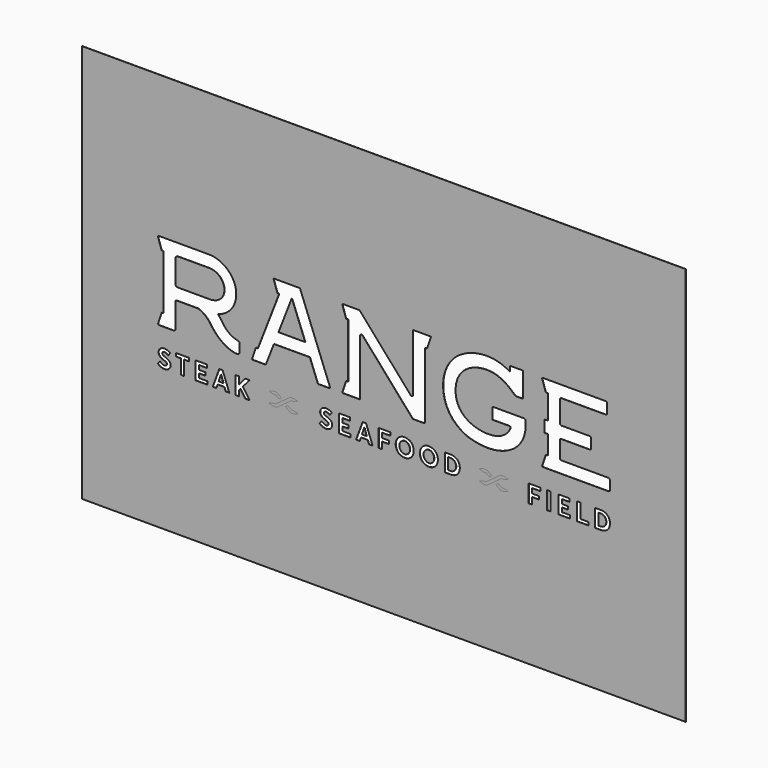
from build123d import *

# Parameters (mm, degrees)
F0_W     = 862.808892
F0_H     = 569.84138
F0_W_2   = 5.02158
F0_H_2   = 25.281382
F1_DEPTH = 0.254
F2_DEPTH = 0.254


with BuildPart() as f1:
    # F0 (on Front) → F1 (new body)
    with BuildSketch(Plane.XZ):
        Rectangle(F0_W, F0_H)
        Polygon((-313.464778, -83.207606), (-313.856446, -83.207606), (-314.469602, -83.207606), (-316.309324, -82.9691), (-318.708608, -82.241644), (-320.98775, -80.998568), (-322.607, -79.71028), (-323.07944, -79.218028), (-320.087828, -75.518264), (-319.616658, -76.06919), (-316.977852, -77.92974), (-314.583902, -78.686152), (-313.786342, -78.686152), (-313.38934, -78.686152), (-312.197318, -78.489302), (-311.061684, -77.937868), (-310.37944, -77.091794), (-310.152364, -76.281534), (-310.152364, -76.012802), (-310.152364, -75.715368), (-310.412714, -74.82205), (-311.213322, -73.927716), (-312.588478, -73.185274), (-314.07133, -72.620124), (-314.570186, -72.45223), (-315.281386, -72.200008), (-317.367742, -71.317866), (-319.808174, -69.78269), (-321.534612, -67.606672), (-322.189424, -65.31229), (-322.189424, -64.548766), (-322.189424, -63.840614), (-321.562552, -61.718444), (-319.839924, -59.440572), (-317.26284, -57.910984), (-314.872192, -57.333388), (-314.07133, -57.321196), (-313.287486, -57.312814), (-309.562322, -58.13679), (-306.176502, -60.009786), (-305.562076, -60.526422), (-308.446246, -64.300862), (-308.809974, -63.99784), (-309.97304, -63.173864), (-311.405092, -62.399164), (-312.737322, -61.951362), (-313.657818, -61.808106), (-313.964142, -61.808106), (-314.267164, -61.808106), (-315.17242, -61.977524), (-316.13, -62.471046), (-316.76119, -63.264796), (-316.988774, -64.066674), (-316.988774, -64.334136), (-316.995378, -64.588644), (-316.748998, -65.364868), (-315.96617, -66.187574), (-314.63775, -66.930016), (-313.22805, -67.53225), (-312.752562, -67.720972), (-311.98218, -68.021708), (-309.68094, -68.961508), (-307.193518, -70.392036), (-305.527278, -72.418956), (-304.91844, -74.686922), (-304.91844, -75.443588), (-304.91844, -75.92314), (-305.133324, -77.36205), (-305.735558, -78.985364), (-306.659102, -80.32623), (-307.839948, -81.395316), (-309.215358, -82.20583), (-310.71853, -82.77098), (-312.28825, -83.100164), align=None, mode=Mode.SUBTRACT)
        Polygon((-278.437924, -57.642252), (-278.437924, -62.129162), (-285.452134, -62.129162), (-285.452134, -82.923634), (-290.4379, -82.923634), (-290.4379, -62.129162), (-297.415026, -62.129162), (-297.415026, -57.642252), align=None, mode=Mode.SUBTRACT)
        Polygon((-252.386414, -78.472792), (-252.386414, -82.923634), (-269.29748, -82.923634), (-269.29748, -57.642252), (-253.13165, -57.642252), (-253.13165, -62.129162), (-264.386136, -62.129162), (-264.386136, -68.182744), (-255.378026, -68.182744), (-255.378026, -72.596756), (-264.386136, -72.596756), (-264.386136, -78.472792), align=None, mode=Mode.SUBTRACT)
        Polygon((-221.096408, -82.923634), (-226.330078, -82.923634), (-228.040514, -77.867764), (-237.761348, -77.867764), (-239.471022, -82.923634), (-244.704946, -82.923634), (-235.338696, -57.642252), (-230.53327, -57.642252), align=None, mode=Mode.SUBTRACT)
        Polygon((-127.517474, -79.036418), (-127.941654, -79.167228), (-128.155014, -79.269336), (-129.224354, -79.408274), (-130.291154, -79.369666), (-130.504514, -79.383636), (-133.712534, -79.383636), (-134.233234, -79.004668), (-140.667054, -74.3331), (-137.291394, -71.881492), (-132.424754, -75.41895), (-130.504514, -75.41895), (-130.291154, -75.432666), (-129.224354, -75.392534), (-128.155014, -75.53198), (-127.941654, -75.635358), (-127.517474, -75.764644), (-123.245194, -77.228446), (-122.818474, -77.400658), (-123.245194, -77.571346), align=None, mode=Mode.SUBTRACT)
        Polygon((-192.020012, -82.923634), (-198.181036, -82.923634), (-204.910258, -72.773286), (-204.947342, -72.773286), (-207.436034, -75.731624), (-207.436034, -82.923634), (-212.4218, -82.923634), (-212.4218, -57.642252), (-207.436034, -57.642252), (-207.436034, -68.784978), (-207.403014, -68.784978), (-198.641284, -57.642252), (-192.30373, -57.642252), (-201.63442, -68.784978), align=None, mode=Mode.SUBTRACT)
        Polygon((-163.994414, -62.24778), (-164.421134, -62.06998), (-163.994414, -61.890656), (-159.724674, -60.408058), (-159.297954, -60.278518), (-159.084594, -60.173616), (-158.015254, -60.053728), (-156.948454, -60.106052), (-156.732554, -60.088272), (-153.527074, -60.088272), (-153.006374, -60.46724), (-146.575094, -65.138808), (-149.950754, -67.588638), (-154.817394, -64.052958), (-156.732554, -64.052958), (-156.948454, -64.034924), (-158.015254, -64.085978), (-159.084594, -63.96609), (-159.297954, -63.862712), (-159.724674, -63.731902), align=None, mode=Mode.SUBTRACT)
        Polygon((-127.517474, -63.70574), (-127.941654, -63.83655), (-128.155014, -63.938658), (-129.224354, -64.077596), (-130.291154, -64.039242), (-130.504514, -64.052958), (-132.424754, -64.052958), (-153.006374, -79.004668), (-153.527074, -79.383636), (-156.732554, -79.383636), (-156.948454, -79.365602), (-158.015254, -79.416656), (-159.084594, -79.296768), (-159.297954, -79.19339), (-159.724674, -79.06258), (-163.994414, -77.578458), (-164.421134, -77.400658), (-163.994414, -77.221334), (-159.724674, -75.738736), (-159.297954, -75.609196), (-159.084594, -75.504294), (-158.015254, -75.384406), (-156.948454, -75.43673), (-156.732554, -75.41895), (-154.814854, -75.41895), (-134.233234, -60.46724), (-133.712534, -60.088272), (-130.504514, -60.088272), (-130.291154, -60.101988), (-129.224354, -60.061856), (-128.155014, -60.201302), (-127.941654, -60.30468), (-127.517474, -60.433966), (-123.245194, -61.897768), (-122.818474, -62.06998), (-123.245194, -62.240668), align=None, mode=Mode.SUBTRACT)
        Polygon((-82.488354, -83.207606), (-82.879514, -83.207606), (-83.494194, -83.207606), (-85.333154, -82.9691), (-87.733454, -82.241644), (-90.011834, -80.998568), (-91.632354, -79.71028), (-92.104794, -79.218028), (-89.112674, -75.518264), (-88.640234, -76.06919), (-86.001174, -77.92974), (-83.608494, -78.686152), (-82.810934, -78.686152), (-82.414694, -78.686152), (-81.220894, -78.489302), (-80.085514, -77.937868), (-79.404794, -77.091794), (-79.176194, -76.281534), (-79.176194, -76.012802), (-79.176194, -75.715368), (-79.437814, -74.82205), (-80.237914, -73.927716), (-81.612054, -73.185274), (-83.095414, -72.620124), (-83.593254, -72.45223), (-84.304454, -72.200008), (-86.392334, -71.317866), (-88.833274, -69.78269), (-90.557934, -67.606672), (-91.213254, -65.31229), (-91.213254, -64.548766), (-91.213254, -63.840614), (-90.585874, -61.718444), (-88.863754, -59.440572), (-86.288194, -57.910984), (-83.895514, -57.333388), (-83.095414, -57.321196), (-82.310554, -57.312814), (-78.586914, -58.13679), (-75.198554, -60.009786), (-74.586414, -60.526422), (-77.471854, -64.300862), (-77.835074, -63.99784), (-78.998394, -63.173864), (-80.428414, -62.399164), (-81.761914, -61.951362), (-82.681394, -61.808106), (-82.988734, -61.808106), (-83.290994, -61.808106), (-84.197774, -61.977524), (-85.155354, -62.471046), (-85.785274, -63.264796), (-86.013874, -64.066674), (-86.013874, -64.334136), (-86.018954, -64.588644), (-85.772574, -65.364868), (-84.990254, -66.187574), (-83.661834, -66.930016), (-82.252134, -67.53225), (-81.777154, -67.720972), (-81.007534, -68.021708), (-78.706294, -68.961508), (-76.219634, -70.392036), (-74.550854, -72.418956), (-73.943794, -74.686922), (-73.943794, -75.443588), (-73.943794, -75.92314), (-74.159694, -77.36205), (-74.759134, -78.985364), (-75.683694, -80.32623), (-76.864794, -81.395316), (-78.241474, -82.20583), (-79.742614, -82.77098), (-81.312334, -83.100164), align=None, mode=Mode.SUBTRACT)
        Polygon((-47.461754, -78.472792), (-47.461754, -82.923634), (-64.375614, -82.923634), (-64.375614, -57.642252), (-48.208514, -57.642252), (-48.208514, -62.129162), (-59.463254, -62.129162), (-59.463254, -68.182744), (-50.451334, -68.182744), (-50.451334, -72.596756), (-59.463254, -72.596756), (-59.463254, -78.472792), align=None, mode=Mode.SUBTRACT)
        Polygon((-16.176574, -82.923634), (-21.411514, -82.923634), (-23.118394, -77.867764), (-32.841514, -77.867764), (-34.553474, -82.923634), (-39.783334, -82.923634), (-30.418354, -57.642252), (-25.612674, -57.642252), align=None, mode=Mode.SUBTRACT)
        Polygon((173.088986, -79.254096), (172.662266, -79.384906), (172.448906, -79.487014), (171.382106, -79.625952), (170.315306, -79.587344), (170.104486, -79.601314), (166.901546, -79.601314), (166.378306, -79.223616), (159.957186, -74.557636), (163.327766, -72.110346), (168.189326, -75.640946), (170.104486, -75.640946), (170.315306, -75.654662), (171.382106, -75.6158), (172.448906, -75.755246), (172.662266, -75.858624), (173.088986, -75.988164), (177.353646, -77.448918), (177.780366, -77.62113), (177.353646, -77.791818), align=None, mode=Mode.SUBTRACT)
        Polygon((9.271686, -57.642252), (9.271686, -62.129162), (-2.549474, -62.129162), (-2.549474, -68.8594), (7.310806, -68.8594), (7.310806, -73.342246), (-2.549474, -73.342246), (-2.549474, -82.923634), (-7.497394, -82.923634), (-7.497394, -57.642252), align=None, mode=Mode.SUBTRACT)
        Polygon((30.366386, -83.207606), (29.695826, -83.207606), (29.007486, -83.207606), (26.942466, -82.958178), (24.453266, -82.23885), (22.256166, -81.0895), (20.381646, -79.54899), (18.867806, -77.658214), (17.742586, -75.456034), (17.049166, -72.985122), (16.807866, -70.959472), (16.807866, -70.28434), (16.807866, -69.60489), (17.049166, -67.568318), (17.742586, -65.088008), (18.867806, -62.878716), (20.381646, -60.98413), (22.256166, -59.440572), (24.453266, -58.288428), (26.942466, -57.5691), (29.007486, -57.321196), (29.695826, -57.321196), (30.366386, -57.321196), (32.383146, -57.560972), (34.841866, -58.258202), (37.033886, -59.384184), (38.913486, -60.902596), (40.447646, -62.78499), (41.590646, -64.996822), (42.306926, -67.507612), (42.553306, -69.58965), (42.553306, -70.28434), (42.553306, -70.976236), (42.306926, -73.05548), (41.590646, -75.560936), (40.447646, -77.765656), (38.913486, -79.640938), (37.033886, -81.154524), (34.841866, -82.27314), (32.383146, -82.96783), align=None, mode=Mode.SUBTRACT)
        Polygon((64.930706, -83.207606), (64.257606, -83.207606), (63.569266, -83.207606), (61.504246, -82.958178), (59.015046, -82.23885), (56.817946, -81.0895), (54.943426, -79.54899), (53.427046, -77.658214), (52.304366, -75.456034), (51.605866, -72.985122), (51.367106, -70.959472), (51.367106, -70.28434), (51.367106, -69.60489), (51.605866, -67.568318), (52.304366, -65.088008), (53.427046, -62.878716), (54.943426, -60.98413), (56.817946, -59.440572), (59.015046, -58.288428), (61.504246, -57.5691), (63.569266, -57.321196), (64.257606, -57.321196), (64.930706, -57.321196), (66.944926, -57.560972), (69.406186, -58.258202), (71.595666, -59.384184), (73.477806, -60.902596), (75.009426, -62.78499), (76.152426, -64.996822), (76.868706, -67.507612), (77.115086, -69.58965), (77.115086, -70.28434), (77.115086, -70.976236), (76.868706, -73.05548), (76.152426, -75.560936), (75.009426, -77.765656), (73.477806, -79.640938), (71.595666, -81.154524), (69.406186, -82.27314), (66.944926, -82.96783), align=None, mode=Mode.SUBTRACT)
        Polygon((96.157466, -82.923634), (95.436106, -82.923634), (86.965206, -82.923634), (86.965206, -57.642252), (95.331966, -57.642252), (96.048246, -57.642252), (98.197086, -57.879234), (100.762486, -58.57113), (103.010386, -59.680094), (104.902686, -61.175646), (106.424146, -63.020702), (107.541746, -65.18275), (108.235166, -67.62623), (108.471386, -69.643752), (108.471386, -70.317614), (108.471386, -70.985634), (108.240246, -72.995028), (107.574766, -75.425808), (106.487646, -77.575664), (104.999206, -79.411068), (103.129766, -80.896714), (100.899646, -82.000344), (98.329166, -82.686652), align=None, mode=Mode.SUBTRACT)
        Polygon((136.657766, -62.488572), (136.233586, -62.310772), (136.657766, -62.131956), (140.922426, -60.651644), (141.349146, -60.522358), (141.565046, -60.417456), (142.629306, -60.297568), (143.696106, -60.348622), (143.909466, -60.330588), (147.114946, -60.330588), (147.633106, -60.709556), (154.056766, -65.37579), (150.686186, -67.822064), (145.827166, -64.291464), (143.909466, -64.291464), (143.696106, -64.27343), (142.629306, -64.32423), (141.565046, -64.204596), (141.349146, -64.101218), (140.922426, -63.970408), align=None, mode=Mode.SUBTRACT)
        Polygon((173.088986, -63.943992), (172.662266, -64.074802), (172.448906, -64.177164), (171.382106, -64.316102), (170.315306, -64.277494), (170.104486, -64.291464), (168.189326, -64.291464), (147.633106, -79.223616), (147.114946, -79.601314), (143.909466, -79.601314), (143.696106, -79.58328), (142.629306, -79.634334), (141.565046, -79.514446), (141.349146, -79.411068), (140.922426, -79.280258), (136.657766, -77.79893), (136.233586, -77.62113), (136.657766, -77.441806), (140.922426, -75.962002), (141.349146, -75.832462), (141.565046, -75.727814), (142.629306, -75.607672), (143.696106, -75.658472), (143.909466, -75.640946), (145.827166, -75.640946), (166.378306, -60.709556), (166.901546, -60.330588), (170.104486, -60.330588), (170.315306, -60.344558), (171.382106, -60.30468), (172.448906, -60.443618), (172.662266, -60.546996), (173.088986, -60.67679), (177.353646, -62.138814), (177.780366, -62.310772), (177.353646, -62.481968), align=None, mode=Mode.SUBTRACT)
        Polygon((223.634986, -57.642252), (223.634986, -62.129162), (211.813826, -62.129162), (211.813826, -68.8594), (221.674106, -68.8594), (221.674106, -73.342246), (211.813826, -73.342246), (211.813826, -82.923634), (206.863366, -82.923634), (206.863366, -57.642252), align=None, mode=Mode.SUBTRACT)
        with Locations((235.818096, -70.282943)):
            Rectangle(F0_W_2, F0_H_2, mode=Mode.SUBTRACT)
        Polygon((266.306986, -78.472792), (266.306986, -82.923634), (249.395666, -82.923634), (249.395666, -57.642252), (265.557686, -57.642252), (265.557686, -62.129162), (254.308026, -62.129162), (254.308026, -68.182744), (263.314866, -68.182744), (263.314866, -72.596756), (254.308026, -72.596756), (254.308026, -78.472792), align=None, mode=Mode.SUBTRACT)
        Polygon((292.362306, -78.472792), (292.362306, -82.923634), (276.088526, -82.923634), (276.088526, -57.642252), (281.110106, -57.642252), (281.110106, -78.472792), align=None, mode=Mode.SUBTRACT)
        Polygon((310.767146, -82.923634), (310.048326, -82.923634), (301.574886, -82.923634), (301.574886, -57.642252), (309.941646, -57.642252), (310.657926, -57.642252), (312.806766, -57.879234), (315.374706, -58.57113), (317.617526, -59.680094), (319.517446, -61.175646), (321.033826, -63.020702), (322.151426, -65.18275), (322.842306, -67.62623), (323.078526, -69.643752), (323.078526, -70.317614), (323.078526, -70.985634), (322.852466, -72.995028), (322.181906, -75.425808), (321.097326, -77.575664), (319.603806, -79.411068), (317.734366, -80.896714), (315.504246, -82.000344), (312.936306, -82.686652), align=None, mode=Mode.SUBTRACT)
        Polygon((-264.2759, 8.28929), (-265.641658, 8.73633), (-297.014214, 8.72109), (-297.1943, 8.72109), (-297.734812, 8.42391), (-298.032246, 7.88289), (-298.032246, 7.70255), (-298.01853, -28.24099), (-298.01853, -28.45435), (-298.190996, -29.08935), (-298.659372, -29.78531), (-299.353808, -30.25267), (-299.990586, -30.42539), (-300.20293, -30.42539), (-321.202634, -30.42793), (-321.387546, -30.42793), (-321.939996, -30.25013), (-322.437328, -29.86405), (-322.513274, -29.75991), (-322.59049, -29.65069), (-322.801056, -29.05887), (-322.775148, -28.43149), (-322.733746, -28.30703), (-317.786334, -13.46835), (-314.990556, -13.46835), (-314.990556, 64.79159), (-317.786334, 64.79159), (-323.041086, 80.54975), (-323.06039, 80.60563), (-323.07563, 80.80121), (-323.033974, 80.90027), (-323.025846, 80.91043), (-322.991302, 80.95869), (-322.765496, 81.12379), (-322.04185, 81.40827), (-320.626562, 81.64957), (-318.874978, 81.75371), (-318.290778, 81.75371), (-250.58657, 81.75371), (-249.652358, 81.75371), (-246.849214, 81.58353), (-243.197456, 81.07553), (-239.649076, 80.25257), (-236.223124, 79.13243), (-232.936618, 77.72019), (-229.808608, 76.04125), (-226.85789, 74.10577), (-224.103514, 71.93153), (-221.560974, 69.53885), (-219.251352, 66.93789), (-217.191158, 64.14135), (-215.399696, 61.17463), (-213.894746, 58.04535), (-212.694596, 54.77129), (-211.818296, 51.37277), (-211.371764, 48.74133), (-211.282102, 47.85741), (-211.129448, 46.33341), (-211.169326, 41.71061), (-212.06493, 35.87115), (-213.924972, 30.40507), (-216.706018, 25.38095), (-220.364634, 20.85975), (-224.857386, 16.90497), (-230.140586, 13.58519), (-234.623178, 11.50747), (-236.16953, 10.96137), (-237.132698, 10.62355), (-236.42988, 9.88441), (-235.94347, 9.37387), (-231.969386, 4.16941), (-231.664586, 3.64363), (-231.03238, 2.55651), (-228.86322, -0.55499), (-225.855098, -4.01955), (-222.730898, -6.81863), (-219.588918, -9.02589), (-216.52009, -10.70991), (-213.619156, -11.94181), (-210.981874, -12.79017), (-209.274486, -13.21943), (-208.699684, -13.33119), (-208.439334, -13.38199), (-207.69359, -13.72489), (-206.89857, -14.42339), (-206.374822, -15.35557), (-206.1861, -16.16837), (-206.18483, -16.44015), (-206.172384, -26.53411), (-206.172384, -26.88463), (-206.440862, -27.94635), (-207.05732, -28.94457), (-207.229278, -29.11475), (-207.44848, -29.32811), (-208.834812, -30.09519), (-210.521626, -30.42793), (-210.889418, -30.42539), (-211.750478, -30.41015), (-214.330356, -30.05201), (-218.401214, -29.00045), (-222.95137, -27.21737), (-227.8269, -24.64435), (-232.878706, -21.23059), (-237.955658, -16.91767), (-242.904086, -11.64971), (-246.499202, -7.00659), (-247.572606, -5.37845), (-248.403948, -4.11861), (-251.279736, -0.59309), (-255.536268, 3.36423), (-260.329248, 6.47827), align=None, mode=Mode.SUBTRACT)
        Polygon((-94.599074, -29.89707), (-94.596534, -29.89707), (-105.922394, -0.74041), (-157.304054, -0.74041), (-168.627374, -29.89707), (-168.665474, -29.99105), (-169.026154, -30.37967), (-169.463034, -30.57779), (-169.610354, -30.57779), (-179.996668, -30.57779), (-179.996668, -30.58033), (-187.477984, -30.58033), (-187.591014, -30.58033), (-187.927056, -30.47365), (-188.228808, -30.24251), (-188.275798, -30.17901), (-188.322534, -30.11551), (-188.436834, -29.38653), (-188.410672, -29.31287), (-183.0721, -13.61821), (-180.1384, -13.61821), (-180.1384, -13.61567), (-149.739934, 64.64173), (-152.152934, 64.64173), (-157.624094, 80.70215), (-157.641874, 80.75549), (-157.563134, 81.27365), (-157.530114, 81.31683), (-157.497094, 81.36255), (-157.098314, 81.59877), (-156.963694, 81.59877), (-143.153714, 81.59877), (-143.153714, 81.60131), (-131.614494, 81.59877), (-120.075274, 81.60131), (-113.489054, 64.64427), (-83.087794, -13.61567), (-77.182294, -28.82265), (-77.126414, -28.96743), (-77.108634, -29.45511), (-77.342314, -30.01899), (-77.817294, -30.42285), (-78.304974, -30.57779), (-78.467534, -30.57779), (-93.567834, -30.57779), (-93.722774, -30.57779), (-94.185054, -30.37713), (-94.563514, -29.99105), align=None, mode=Mode.SUBTRACT)
        Polygon((-59.387054, 81.27365), (-59.354034, 81.31937), (-59.326094, 81.36509), (-58.932394, 81.60131), (-58.802854, 81.60131), (-34.901454, 81.59877), (38.217526, -1.58369), (38.354686, -1.73863), (39.238606, -2.19075), (40.229206, -2.18313), (40.422246, -2.10947), (40.620366, -2.03327), (41.362046, -1.37287), (41.710026, -0.52197), (41.710026, -0.23749), (41.710026, 80.91805), (41.710026, 81.03997), (41.910686, 81.40065), (42.271366, 81.59877), (42.395826, 81.59877), (66.381046, 81.60131), (66.518206, 81.60131), (66.899206, 81.36509), (66.934766, 81.31937), (66.965246, 81.27365), (67.043986, 80.75549), (67.026206, 80.70215), (61.674426, 64.64173), (58.669606, 64.64173), (58.669606, -29.10459), (58.669606, -29.24683), (58.552766, -29.67609), (58.237806, -30.14599), (57.770446, -30.46095), (57.338646, -30.57779), (57.198946, -30.57779), (41.991966, -30.57779), (41.842106, -30.57779), (41.392526, -30.44825), (40.965806, -30.16631), (40.894686, -30.09011), (-30.639334, 51.28641), (-30.779034, 51.44135), (-31.660414, 51.89601), (-32.651014, 51.88585), (-32.844054, 51.80965), (-33.042174, 51.73599), (-33.783854, 51.07813), (-34.131834, 50.22469), (-34.131834, 49.93767), (-34.131834, -29.89707), (-34.131834, -30.01899), (-34.335034, -30.37967), (-34.698254, -30.58033), (-34.817634, -30.58033), (-58.411694, -30.57779), (-58.523454, -30.57779), (-58.851114, -30.47111), (-59.148294, -30.23997), (-59.191474, -30.17901), (-59.239734, -30.11551), (-59.348954, -29.38653), (-59.326094, -29.31033), (-54.093694, -13.61821), (-51.091414, -13.61821), (-51.091414, 64.64173), (-54.093694, 64.64173), (-59.448014, 80.70215), (-59.465794, 80.75549), align=None, mode=Mode.SUBTRACT)
        Polygon((202.334546, 8.50265), (202.189766, 7.47649), (202.027206, 6.34365), (200.759746, 0.88773), (198.897926, -4.25323), (198.435646, -5.22859), (197.955586, -6.23951), (196.302046, -9.17067), (193.817926, -12.77239), (191.013766, -16.04137), (187.914966, -18.98523), (184.564706, -21.61413), (180.983306, -23.93061), (177.206326, -25.94483), (173.264246, -27.66187), (169.187546, -29.09443), (165.006706, -30.23997), (160.752206, -31.117794), (156.454526, -31.726886), (152.146686, -32.076644), (147.864246, -32.174688), (143.627526, -32.028638), (140.513486, -31.770828), (139.479706, -31.645606), (138.217326, -31.491174), (134.445426, -30.95244), (129.009826, -29.94787), (123.459926, -28.51277), (119.385766, -27.10307), (118.077666, -26.52395), (116.132026, -25.66289), (110.536406, -22.55647), (103.884146, -17.75587), (98.151366, -12.18311), (93.381246, -5.88899), (89.604266, 1.06807), (86.858526, 8.62711), (85.184666, 16.73733), (84.615706, 23.18893), (84.615706, 25.33777), (84.615706, 26.89987), (84.905266, 31.58617), (85.773946, 37.58565), (87.201426, 43.31589), (89.187706, 48.75911), (91.725166, 53.90007), (94.801106, 58.71591), (98.412986, 63.18885), (101.460986, 66.33337), (102.548106, 67.30365), (103.619986, 68.26377), (107.041366, 70.91299), (111.935946, 74.08799), (117.181046, 76.81341), (122.730946, 79.07655), (128.532306, 80.86471), (134.541946, 82.15757), (140.706526, 82.94497), (145.410606, 83.20913), (146.975246, 83.20913), (148.814206, 83.20913), (153.711326, 82.90687), (154.323466, 82.84591), (156.228466, 82.66049), (161.897746, 81.57591), (168.598266, 79.55915), (174.422486, 77.11059), (178.168986, 75.23607), (179.393266, 74.57059), (180.371166, 74.03719), (180.371166, 81.60131), (198.255306, 81.60131), (198.379766, 81.60131), (198.745526, 81.40065), (198.951266, 81.04505), (198.951266, 80.92313), (198.951266, 46.70679), (198.951266, 46.58741), (198.745526, 46.22673), (198.379766, 46.02861), (198.255306, 46.02861), (188.590606, 46.02861), (187.914966, 46.27753), (182.921326, 50.61077), (182.913706, 50.61839), (182.801946, 50.71491), (182.507306, 50.97145), (182.095826, 51.32705), (181.628466, 51.73599), (181.161106, 52.14239), (180.752166, 52.49545), (180.465146, 52.74691), (180.355926, 52.84089), (179.957146, 53.16347), (178.758266, 54.11851), (176.545926, 55.77967), (173.754466, 57.67451), (170.434686, 59.65063), (166.614526, 61.56071), (162.337166, 63.25743), (157.640706, 64.58839), (153.843406, 65.28181), (152.568326, 65.40627), (151.224666, 65.54089), (147.163206, 65.68821), (141.836826, 65.46469), (136.634906, 64.74587), (131.623486, 63.54953), (126.845746, 61.89345), (122.362646, 59.79541), (118.224986, 57.26557), (115.370026, 55.11419), (114.486106, 54.32171), (113.028146, 53.01615), (109.215606, 48.46447), (105.436086, 41.66997), (103.157706, 33.95853), (102.395706, 27.51201), (102.395706, 25.36063), (102.395706, 23.87473), (102.766546, 19.41449), (103.866366, 13.90523), (105.705326, 8.83793), (108.268186, 4.21513), (111.560026, 0.03937), (115.570686, -3.68427), (120.310326, -6.95325), (124.364166, -9.14019), (125.763706, -9.75995), (126.949886, -10.28573), (130.625266, -11.61415), (135.743366, -13.01115), (141.011326, -13.95095), (146.312306, -14.42339), (151.544706, -14.42593), (156.596766, -13.95349), (161.359266, -13.00099), (164.656186, -11.99515), (165.720446, -11.56335), (166.782166, -11.12901), (171.676746, -8.31215), (175.867746, -4.72059), (176.581486, -3.90017), (176.594186, -3.88747), (176.817706, -3.61569), (177.396826, -2.88163), (178.189306, -1.81229), (179.060526, -0.51943), (179.880946, 0.88265), (180.508326, 2.27711), (180.825826, 3.55473), (180.790266, 4.37261), (180.688666, 4.60121), (180.648026, 4.69011), (180.482926, 4.93141), (180.147646, 5.23367), (179.647266, 5.45719), (179.124026, 5.54609), (178.948766, 5.54609), (155.689986, 5.54609), (155.565526, 5.54609), (155.199766, 5.74421), (154.994026, 6.10235), (154.994026, 6.22173), (154.994026, 21.31441), (154.994026, 21.43379), (155.199766, 21.79193), (155.565526, 21.99005), (155.689986, 21.99005), (200.355886, 21.99005), (200.584486, 21.99005), (201.267746, 21.81225), (202.017046, 21.32203), (202.525046, 20.59305), (202.715546, 19.92249), (202.715546, 19.69897), (202.723166, 18.74901), (202.679986, 13.70203), align=None, mode=Mode.SUBTRACT)
        Polygon((323.078526, -15.84833), (323.078526, -28.34767), (323.078526, -28.56357), (322.903266, -29.21381), (322.425746, -29.92501), (321.717086, -30.39999), (321.064306, -30.57779), (320.850946, -30.57779), (226.939526, -30.57779), (226.771886, -30.57779), (226.304526, -30.28823), (226.266426, -30.23489), (226.228326, -30.17901), (226.131806, -29.55163), (226.154666, -29.48813), (231.445486, -13.61821), (234.447766, -13.61821), (234.447766, 13.20165), (229.631926, 13.20165), (229.631926, 30.16377), (234.447766, 30.16377), (234.447766, 64.64173), (231.445486, 64.64173), (226.195306, 80.38719), (226.172446, 80.45831), (226.276586, 81.15681), (226.322306, 81.21777), (226.365486, 81.28127), (226.647426, 81.50225), (226.962386, 81.60131), (227.071606, 81.60131), (316.926646, 81.60131), (317.145086, 81.60131), (317.795326, 81.42605), (318.503986, 80.94853), (318.984046, 80.23987), (319.159306, 79.58709), (319.159306, 79.36865), (319.159306, 66.87185), (319.159306, 66.65595), (318.984046, 66.00571), (318.503986, 65.29451), (317.795326, 64.81953), (317.145086, 64.64173), (316.926646, 64.64173), (253.652706, 64.64173), (253.434266, 64.64173), (252.778946, 64.46647), (252.062666, 63.98387), (251.582606, 63.27013), (251.404806, 62.61481), (251.404806, 62.39637), (251.404806, 32.40913), (251.404806, 32.19069), (251.582606, 31.53537), (252.062666, 30.82163), (252.778946, 30.33903), (253.434266, 30.16377), (253.652706, 30.16377), (294.130146, 30.16377), (294.346046, 30.16377), (294.998826, 29.98851), (295.707486, 29.51099), (296.182466, 28.80233), (296.360266, 28.15209), (296.360266, 27.93365), (296.360266, 15.43431), (296.360266, 15.21841), (296.182466, 14.56563), (295.707486, 13.85697), (294.998826, 13.37945), (294.346046, 13.20165), (294.130146, 13.20165), (253.652706, 13.20165), (253.434266, 13.20165), (252.778946, 13.02893), (252.062666, 12.54633), (251.582606, 11.83259), (251.404806, 11.17473), (251.404806, 10.95629), (251.404806, -11.37285), (251.404806, -11.58875), (251.582606, -12.24661), (252.062666, -12.96035), (252.778946, -13.44041), (253.434266, -13.61821), (253.652706, -13.61821), (320.850946, -13.61821), (321.064306, -13.61821), (321.717086, -13.79347), (322.425746, -14.27099), (322.903266, -14.97965), (323.078526, -15.62989), align=None, mode=Mode.SUBTRACT)
        Polygon((-232.652646, 32.07385), (-231.9417, 32.93237), (-231.322956, 33.68421), (-229.80429, 36.21913), (-228.499492, 39.86657), (-228.03772, 43.82389), (-228.236348, 47.00397), (-228.434468, 48.03775), (-228.605664, 48.92929), (-229.454278, 51.54549), (-231.073528, 54.75097), (-233.228718, 57.60593), (-235.853808, 60.05703), (-238.884028, 62.05093), (-242.253592, 63.53937), (-245.895698, 64.47155), (-248.785456, 64.79159), (-249.7471, 64.79159), (-294.80924, 64.79159), (-295.123184, 64.79159), (-296.061714, 64.54013), (-297.085842, 63.84925), (-297.777484, 62.82563), (-298.029706, 61.88837), (-298.029706, 61.57341), (-298.029706, 28.89631), (-298.029706, 28.58643), (-297.777484, 27.64663), (-297.085842, 26.62301), (-296.061714, 25.93213), (-295.123184, 25.67813), (-294.80924, 25.67813), (-248.888834, 25.67813), (-247.627724, 25.67813), (-243.842362, 26.16581), (-239.235564, 27.57805), (-235.220078, 29.85643), align=None)
        Polygon((-125.721694, 50.22977), (-131.319854, 64.64173), (-131.906594, 64.64173), (-137.502214, 50.22977), (-150.720374, 16.20139), (-112.503534, 16.20139), align=None)
        Polygon((310.830646, -62.129162), (310.043246, -62.129162), (306.522806, -62.129162), (306.522806, -78.472792), (309.725746, -78.472792), (310.561406, -78.472792), (313.073466, -77.848206), (315.646486, -76.131166), (317.297486, -73.544684), (317.879146, -71.123556), (317.879146, -70.317614), (317.879146, -69.497702), (317.294946, -67.040506), (315.671886, -64.446912), (313.190306, -62.742318), align=None)
        Polygon((96.220966, -62.129162), (95.436106, -62.129162), (91.910586, -62.129162), (91.910586, -78.472792), (95.118606, -78.472792), (95.954266, -78.472792), (98.461246, -77.848206), (101.036806, -76.131166), (102.685266, -73.544684), (103.269466, -71.123556), (103.269466, -70.317614), (103.269466, -69.497702), (102.685266, -67.040506), (101.062206, -64.446912), (98.583166, -62.742318), align=None)
        Polygon((65.050086, -62.02299), (64.295706, -62.02299), (63.513386, -62.02299), (61.163886, -62.666372), (58.720406, -64.430402), (57.132906, -67.054222), (56.569026, -69.476874), (56.569026, -70.28434), (56.569026, -71.090536), (57.132906, -73.511664), (58.720406, -76.135484), (61.163886, -77.89799), (63.513386, -78.542896), (64.295706, -78.542896), (65.050086, -78.542896), (67.318306, -77.917294), (69.731306, -76.189078), (71.334046, -73.570846), (71.915706, -71.105522), (71.915706, -70.28434), (71.915706, -69.457316), (71.334046, -66.9798), (69.731306, -64.362838), (67.318306, -62.641734), align=None)
        Polygon((-27.962174, -63.65875), (-28.033294, -63.65875), (-31.383554, -73.594468), (-24.578894, -73.594468), align=None)
        Polygon((-232.88023, -63.65875), (-232.950334, -63.65875), (-236.30034, -73.594468), (-229.49695, -73.594468), align=None)
        Polygon((30.488306, -62.02299), (29.733926, -62.02299), (28.951606, -62.02299), (26.602106, -62.666372), (24.161166, -64.430402), (22.573666, -67.054222), (22.004706, -69.476874), (22.004706, -70.28434), (22.004706, -71.090536), (22.573666, -73.511664), (24.161166, -76.135484), (26.602106, -77.89799), (28.951606, -78.542896), (29.733926, -78.542896), (30.488306, -78.542896), (32.756526, -77.917294), (35.169526, -76.189078), (36.772266, -73.570846), (37.353926, -71.105522), (37.353926, -70.28434), (37.353926, -69.457316), (36.772266, -66.9798), (35.169526, -64.362838), (32.756526, -62.641734), align=None)
    extrude(amount=F1_DEPTH)


with BuildPart() as f2:
    # F0 (on Front) → F2 (new body)
    with BuildSketch(Plane.XZ):
        Polygon((136.657766, -62.131956), (136.233586, -62.310772), (136.657766, -62.488572), (140.922426, -63.970408), (141.349146, -64.101218), (141.565046, -64.204596), (142.629306, -64.32423), (143.696106, -64.27343), (143.909466, -64.291464), (145.827166, -64.291464), (150.686186, -67.822064), (154.056766, -65.37579), (147.633106, -60.709556), (147.114946, -60.330588), (143.909466, -60.330588), (143.696106, -60.348622), (142.629306, -60.297568), (141.565046, -60.417456), (141.349146, -60.522358), (140.922426, -60.651644), align=None)
        Polygon((172.448906, -64.177164), (172.662266, -64.074802), (173.088986, -63.943992), (177.353646, -62.481968), (177.780366, -62.310772), (177.353646, -62.138814), (173.088986, -60.67679), (172.662266, -60.546996), (172.448906, -60.443618), (171.382106, -60.30468), (170.315306, -60.344558), (170.104486, -60.330588), (166.901546, -60.330588), (166.378306, -60.709556), (145.827166, -75.640946), (143.909466, -75.640946), (143.696106, -75.658472), (142.629306, -75.607672), (141.565046, -75.727814), (141.349146, -75.832462), (140.922426, -75.962002), (136.657766, -77.441806), (136.233586, -77.62113), (136.657766, -77.79893), (140.922426, -79.280258), (141.349146, -79.411068), (141.565046, -79.514446), (142.629306, -79.634334), (143.696106, -79.58328), (143.909466, -79.601314), (147.114946, -79.601314), (147.633106, -79.223616), (168.189326, -64.291464), (170.104486, -64.291464), (170.315306, -64.277494), (171.382106, -64.316102), align=None)
        Polygon((172.448906, -79.487014), (172.662266, -79.384906), (173.088986, -79.254096), (177.353646, -77.791818), (177.780366, -77.62113), (177.353646, -77.448918), (173.088986, -75.988164), (172.662266, -75.858624), (172.448906, -75.755246), (171.382106, -75.6158), (170.315306, -75.654662), (170.104486, -75.640946), (168.189326, -75.640946), (163.327766, -72.110346), (159.957186, -74.557636), (166.378306, -79.223616), (166.901546, -79.601314), (170.104486, -79.601314), (170.315306, -79.587344), (171.382106, -79.625952), align=None)
        Polygon((-163.994414, -61.890656), (-164.421134, -62.06998), (-163.994414, -62.24778), (-159.724674, -63.731902), (-159.297954, -63.862712), (-159.084594, -63.96609), (-158.015254, -64.085978), (-156.948454, -64.034924), (-156.732554, -64.052958), (-154.817394, -64.052958), (-149.950754, -67.588638), (-146.575094, -65.138808), (-153.006374, -60.46724), (-153.527074, -60.088272), (-156.732554, -60.088272), (-156.948454, -60.106052), (-158.015254, -60.053728), (-159.084594, -60.173616), (-159.297954, -60.278518), (-159.724674, -60.408058), align=None)
        Polygon((-128.155014, -63.938658), (-127.941654, -63.83655), (-127.517474, -63.70574), (-123.245194, -62.240668), (-122.818474, -62.06998), (-123.245194, -61.897768), (-127.517474, -60.433966), (-127.941654, -60.30468), (-128.155014, -60.201302), (-129.224354, -60.061856), (-130.291154, -60.101988), (-130.504514, -60.088272), (-133.712534, -60.088272), (-134.233234, -60.46724), (-154.814854, -75.41895), (-156.732554, -75.41895), (-156.948454, -75.43673), (-158.015254, -75.384406), (-159.084594, -75.504294), (-159.297954, -75.609196), (-159.724674, -75.738736), (-163.994414, -77.221334), (-164.421134, -77.400658), (-163.994414, -77.578458), (-159.724674, -79.06258), (-159.297954, -79.19339), (-159.084594, -79.296768), (-158.015254, -79.416656), (-156.948454, -79.365602), (-156.732554, -79.383636), (-153.527074, -79.383636), (-153.006374, -79.004668), (-132.424754, -64.052958), (-130.504514, -64.052958), (-130.291154, -64.039242), (-129.224354, -64.077596), align=None)
        Polygon((-128.155014, -79.269336), (-127.941654, -79.167228), (-127.517474, -79.036418), (-123.245194, -77.571346), (-122.818474, -77.400658), (-123.245194, -77.228446), (-127.517474, -75.764644), (-127.941654, -75.635358), (-128.155014, -75.53198), (-129.224354, -75.392534), (-130.291154, -75.432666), (-130.504514, -75.41895), (-132.424754, -75.41895), (-137.291394, -71.881492), (-140.667054, -74.3331), (-134.233234, -79.004668), (-133.712534, -79.383636), (-130.504514, -79.383636), (-130.291154, -79.369666), (-129.224354, -79.408274), align=None)
    extrude(amount=F2_DEPTH)


solid = Compound([f1.part, f2.part])
